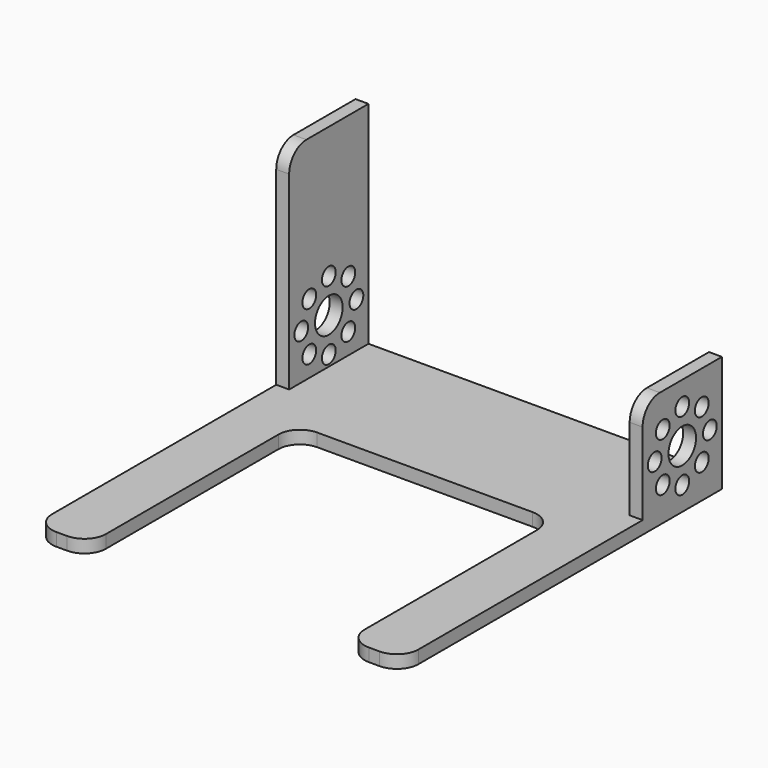
from build123d import *

# Parameters (mm, degrees)
F0_W     = 85
F0_H     = 23
F1_DEPTH = 3
F2_W     = 3
F2_H     = 23
F3_DEPTH = 24
F4_W     = 3
F4_H     = 23
F5_DEPTH = 25
F6_R     = 4
F6_R_2   = 2
F7_DEPTH = 100
F8_R     = 5


with BuildPart() as f1:
    # F0 (on Top) → F1 (new body)
    with BuildSketch(Plane.XY):
        with Locations((42.5, 11.5)):
            Rectangle(F0_W, F0_H)
        with BuildLine():
            Line((85, 0), (0, 0))
            Line((0, 0), (0, -10))
            Line((0, -10), (0, -65))
            ThreePointArc((0, -65), (1.464466, -68.535534), (5, -70))
            Line((5, -70), (7.5, -70))
            ThreePointArc((7.5, -70), (11.035534, -68.535534), (12.5, -65))
            Line((12.5, -65), (12.5, -15))
            ThreePointArc((12.5, -15), (13.964466, -11.464466), (17.5, -10))
            Line((17.5, -10), (67.5, -10))
            ThreePointArc((67.5, -10), (71.035534, -11.464466), (72.5, -15))
            Line((72.5, -15), (72.5, -65))
            ThreePointArc((72.5, -65), (73.964466, -68.535534), (77.5, -70))
            Line((77.5, -70), (80, -70))
            ThreePointArc((80, -70), (83.535534, -68.535534), (85, -65))
            Line((85, -65), (85, -10))
            Line((85, -10), (85, 0))
        make_face()
    extrude(amount=F1_DEPTH)

    # F2 (on face) → F3 (join)
    with BuildSketch(Plane.XY.offset(3)):
        with Locations((1.5, 11.5)):
            Rectangle(F2_W, F2_H)
        with Locations((83.5, 11.5)):
            Rectangle(F2_W, F2_H)
    extrude(amount=F3_DEPTH)

    # F4 (on face) → F5 (join)
    with BuildSketch(Plane.XY.offset(27)):
        with Locations((1.5, 11.5)):
            Rectangle(F4_W, F4_H)
    extrude(amount=F5_DEPTH)

    # F6 (on face) → F7 (cut)
    with BuildSketch(Plane.YZ.offset(85)):
        with Locations((11.5, 13.5)):
            Circle(F6_R)
        with Locations((19.5, 13.5)):
            Circle(F6_R_2)
        with Locations((17.156854, 19.156854)):
            Circle(F6_R_2)
        with Locations((11.5, 21.5)):
            Circle(F6_R_2)
        with Locations((5.843146, 19.156854)):
            Circle(F6_R_2)
        with Locations((3.5, 13.5)):
            Circle(F6_R_2)
        with Locations((5.843146, 7.843146)):
            Circle(F6_R_2)
        with Locations((11.5, 5.5)):
            Circle(F6_R_2)
        with Locations((17.156854, 7.843146)):
            Circle(F6_R_2)
    extrude(amount=-F7_DEPTH, mode=Mode.SUBTRACT)

    # F8
    f8_edges = [f1.edges().sort_by_distance(p)[0] for p in [
        (1.5, 0, 52),
        (83.5, 0, 27),
    ]]
    fillet(f8_edges, radius=F8_R)


solid = f1.part
